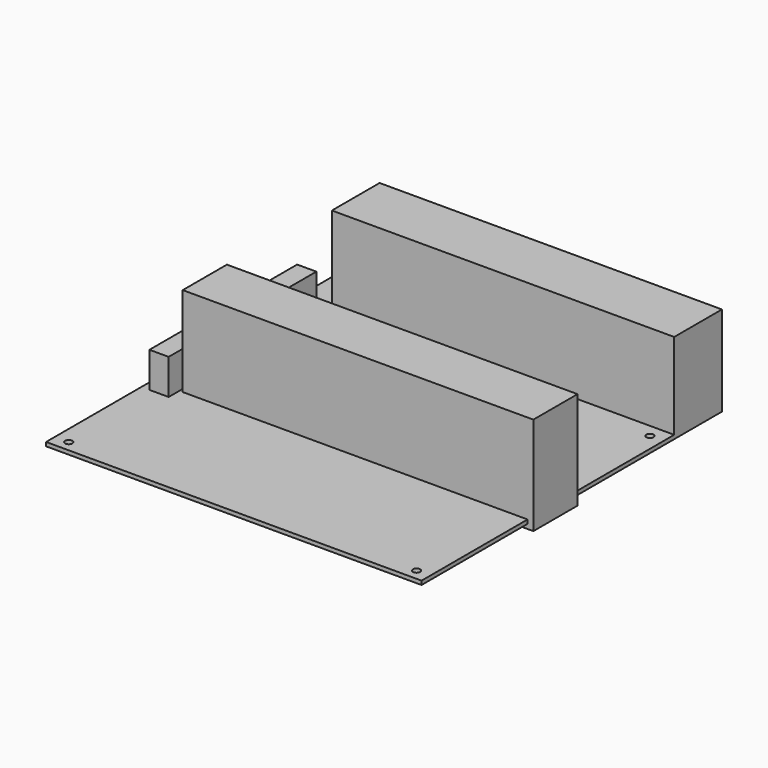
from build123d import *

# Parameters (mm, degrees)
F0_W       = 155
F0_H       = 27
F0_H_2     = 113
F0_H_3     = 30
F1_DEPTH   = 1.75
F2_W       = 8.7
F2_H       = 83.58
F3_DEPTH   = 16
F5_DEPTH   = 39
F6_D       = 3.3
F6_ON_F2_D = 3.3
F4_W       = 158.75
F4_H       = 44.45
F7_DEPTH   = 25


with BuildPart() as f1:
    # F0 (on Top) → F1 (new body)
    with BuildSketch(Plane.XY):
        with Locations((7.5, 71.5)):
            Rectangle(F0_W, F0_H)
        with Locations((7.5, 1.5)):
            Rectangle(F0_W, F0_H_2)
        Polygon((-85, 85), (-85, -85), (-70, -85), (-70, -55), (-70, 58), (-70, 85), align=None)
        with Locations((7.5, -70)):
            Rectangle(F0_W, F0_H_3)
    extrude(amount=-F1_DEPTH)

    # F2 (on face) → F3 (join)
    with BuildSketch(Plane.XY):
        with Locations((-76.9997725161, 10.73)):
            Rectangle(F2_W, F2_H)
    extrude(amount=F3_DEPTH)

    # F0 (on Top) → F5 (join)
    with BuildSketch(Plane.XY):
        with Locations((7.5, 71.5)):
            Rectangle(F0_W, F0_H)
    extrude(amount=F5_DEPTH)

    # F6 (through all)
    with Locations(Plane.XY):
        with Locations((-78.65, -80.1), (-78.65, 74.84), (78.83, -80.1), (78.83, 51.98)):
            Hole(F6_D / 2)

    # F6 on F2 (through all)
    with Locations(Plane.XY):
        with Locations((-25.76, -23.17), (25.24, -23.17), (25.24, 27.83), (-25.76, 27.83)):
            Hole(F6_ON_F2_D / 2)


with BuildPart() as f7:
    # F4 (on Front) → F7 (new body)
    with BuildSketch(Plane.XZ):
        with Locations((8.245, 18.415)):
            Rectangle(F4_W, F4_H)
    extrude(amount=F7_DEPTH)


solid = Compound([f1.part, f7.part])
